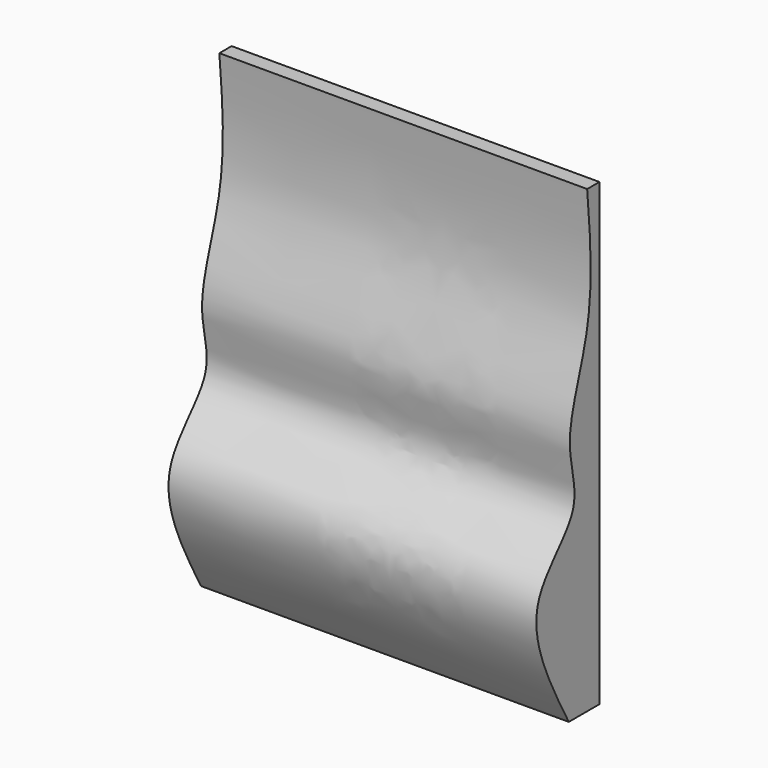
from build123d import *

# Parameters (mm, degrees)
F0_W     = 609.6
F0_H     = 762
F1_DEPTH = 228.6
F3_DEPTH = 609.6


with BuildPart() as f1:
    # F0 (on Front) → F1 (new body)
    with BuildSketch(Plane.XZ):
        Rectangle(F0_W, F0_H)
    extrude(amount=F1_DEPTH)

    # F2 (on face) → F3 (cut)
    with BuildSketch(Plane(origin=(-304.8, 0, 0), x_dir=(0, -1, 0), z_dir=(-1, 0, 0))):
        with BuildLine():
            Line((228.6, 381), (25.4, 381))
            add(Edge.make_bspline(
                [(25.4, 381), (19.1961119222, 311.1196923424), (7.5463268794, 179.8970352518), (81.8686285681, 30.4910204784), (25.8224990028, -83.7578061425), (174.2435715584, -178.4435805318), (103.3059710855, -308.1925867015), (63.5, -381)],
                knots=[0, 0, 0, 0, 0.2276692542, 0.4275219854, 0.5886458648, 0.7691726525, 1, 1, 1, 1], degree=3))
            Line((63.5, -381), (228.6, -381))
            Line((228.6, -381), (228.6, 381))
        make_face()
    extrude(amount=-F3_DEPTH, mode=Mode.SUBTRACT)


solid = f1.part
